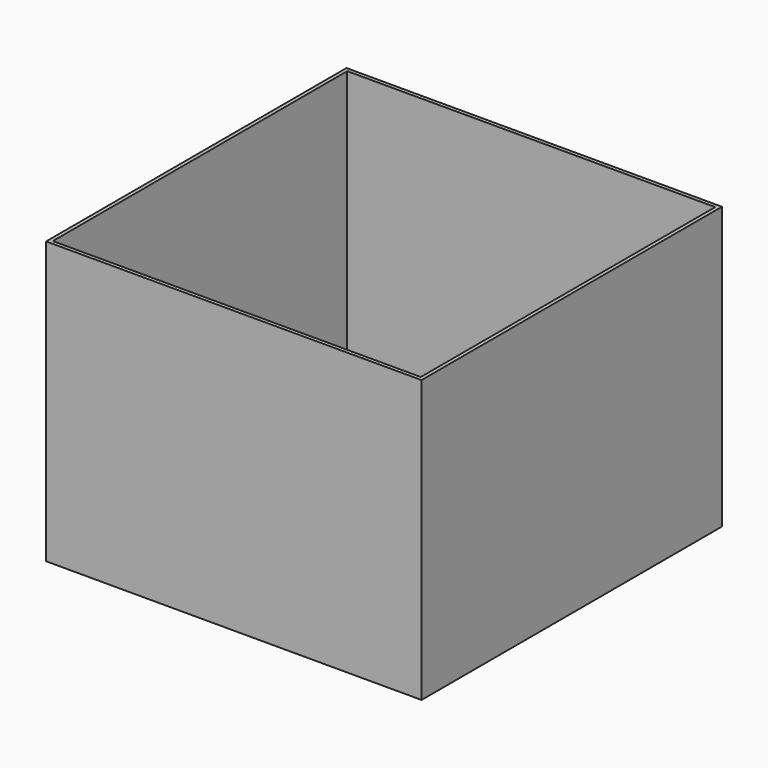
from build123d import *

# Parameters (mm, degrees)
F0_W     = 2000
F0_H     = 2000
F0_W_2   = 1960
F0_H_2   = 1960
F1_DEPTH = 1500
F2_W     = 2000
F2_H     = 2000
F3_DEPTH = 25


with BuildPart() as f1:
    # F0 (on Top) → F1 (new body)
    with BuildSketch(Plane.XY):
        Rectangle(F0_W, F0_H)
        Rectangle(F0_W_2, F0_H_2, mode=Mode.SUBTRACT)
    extrude(amount=F1_DEPTH)

    # F2 (on face) → F3 (join)
    with BuildSketch(Plane(origin=(0, 0, 0), x_dir=(1, 0, 0), z_dir=(0, 0, -1))):
        Rectangle(F2_W, F2_H)
    extrude(amount=-F3_DEPTH)


solid = f1.part
